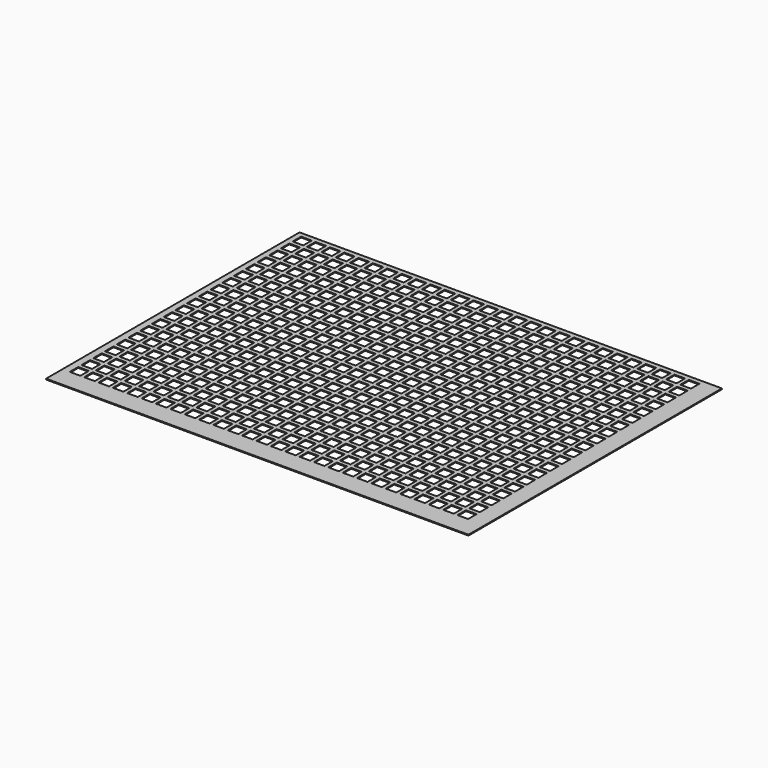
from build123d import *

# Parameters (mm, degrees)
F0_W     = 200
F0_H     = 150
F1_DEPTH = 0.4
F2_W     = 5
F2_H     = 5
F3_DEPTH = 25


with BuildPart() as f1:
    # F0 (on Top) → F1 (new body)
    with BuildSketch(Plane.XY):
        with Locations((100, -75)):
            Rectangle(F0_W, F0_H)
    extrude(amount=F1_DEPTH)

    # F2 (on face) → F3 (cut)
    with BuildSketch(Plane.XY.offset(0.4)):
        with Locations((5.083729, -4.797285)):
            Rectangle(F2_W, F2_H)
        with Locations((11.883729, -4.797285)):
            Rectangle(F2_W, F2_H)
        with Locations((18.683729, -4.797285)):
            Rectangle(F2_W, F2_H)
        with Locations((25.483729, -4.797285)):
            Rectangle(F2_W, F2_H)
        with Locations((32.283729, -4.797285)):
            Rectangle(F2_W, F2_H)
        with Locations((39.083729, -4.797285)):
            Rectangle(F2_W, F2_H)
        with Locations((45.883729, -4.797285)):
            Rectangle(F2_W, F2_H)
        with Locations((52.683729, -4.797285)):
            Rectangle(F2_W, F2_H)
        with Locations((59.483729, -4.797285)):
            Rectangle(F2_W, F2_H)
        with Locations((66.283729, -4.797285)):
            Rectangle(F2_W, F2_H)
        with Locations((73.083729, -4.797285)):
            Rectangle(F2_W, F2_H)
        with Locations((79.883729, -4.797285)):
            Rectangle(F2_W, F2_H)
        with Locations((86.683729, -4.797285)):
            Rectangle(F2_W, F2_H)
        with Locations((93.483729, -4.797285)):
            Rectangle(F2_W, F2_H)
        with Locations((100.283729, -4.797285)):
            Rectangle(F2_W, F2_H)
        with Locations((107.083729, -4.797285)):
            Rectangle(F2_W, F2_H)
        with Locations((113.883729, -4.797285)):
            Rectangle(F2_W, F2_H)
        with Locations((120.683729, -4.797285)):
            Rectangle(F2_W, F2_H)
        with Locations((127.483729, -4.797285)):
            Rectangle(F2_W, F2_H)
        with Locations((134.283729, -4.797285)):
            Rectangle(F2_W, F2_H)
        with Locations((141.083729, -4.797285)):
            Rectangle(F2_W, F2_H)
        with Locations((147.883729, -4.797285)):
            Rectangle(F2_W, F2_H)
        with Locations((154.683729, -4.797285)):
            Rectangle(F2_W, F2_H)
        with Locations((161.483729, -4.797285)):
            Rectangle(F2_W, F2_H)
        with Locations((168.283729, -4.797285)):
            Rectangle(F2_W, F2_H)
        with Locations((175.083729, -4.797285)):
            Rectangle(F2_W, F2_H)
        with Locations((181.883729, -4.797285)):
            Rectangle(F2_W, F2_H)
        with Locations((188.683729, -4.797285)):
            Rectangle(F2_W, F2_H)
        with Locations((113.92974, -11.797134)):
            Rectangle(F2_W, F2_H)
        with Locations((127.52974, -11.797134)):
            Rectangle(F2_W, F2_H)
        with Locations((25.52974, -11.797134)):
            Rectangle(F2_W, F2_H)
        with Locations((73.12974, -11.797134)):
            Rectangle(F2_W, F2_H)
        with Locations((175.12974, -11.797134)):
            Rectangle(F2_W, F2_H)
        with Locations((45.92974, -11.797134)):
            Rectangle(F2_W, F2_H)
        with Locations((86.72974, -11.797134)):
            Rectangle(F2_W, F2_H)
        with Locations((11.92974, -11.797134)):
            Rectangle(F2_W, F2_H)
        with Locations((100.32974, -11.797134)):
            Rectangle(F2_W, F2_H)
        with Locations((168.32974, -11.797134)):
            Rectangle(F2_W, F2_H)
        with Locations((93.52974, -11.797134)):
            Rectangle(F2_W, F2_H)
        with Locations((134.32974, -11.797134)):
            Rectangle(F2_W, F2_H)
        with Locations((147.92974, -11.797134)):
            Rectangle(F2_W, F2_H)
        with Locations((107.12974, -11.797134)):
            Rectangle(F2_W, F2_H)
        with Locations((188.72974, -11.797134)):
            Rectangle(F2_W, F2_H)
        with Locations((161.52974, -11.797134)):
            Rectangle(F2_W, F2_H)
        with Locations((141.12974, -11.797134)):
            Rectangle(F2_W, F2_H)
        with Locations((181.92974, -11.797134)):
            Rectangle(F2_W, F2_H)
        with Locations((52.72974, -11.797134)):
            Rectangle(F2_W, F2_H)
        with Locations((59.52974, -11.797134)):
            Rectangle(F2_W, F2_H)
        with Locations((66.32974, -11.797134)):
            Rectangle(F2_W, F2_H)
        with Locations((154.72974, -11.797134)):
            Rectangle(F2_W, F2_H)
        with Locations((39.12974, -11.797134)):
            Rectangle(F2_W, F2_H)
        with Locations((79.92974, -11.797134)):
            Rectangle(F2_W, F2_H)
        with Locations((120.72974, -11.797134)):
            Rectangle(F2_W, F2_H)
        with Locations((5.12974, -11.797134)):
            Rectangle(F2_W, F2_H)
        with Locations((18.72974, -11.797134)):
            Rectangle(F2_W, F2_H)
        with Locations((32.32974, -11.797134)):
            Rectangle(F2_W, F2_H)
        with Locations((113.97575, -18.796983)):
            Rectangle(F2_W, F2_H)
        with Locations((127.57575, -18.796983)):
            Rectangle(F2_W, F2_H)
        with Locations((25.57575, -18.796983)):
            Rectangle(F2_W, F2_H)
        with Locations((73.17575, -18.796983)):
            Rectangle(F2_W, F2_H)
        with Locations((175.17575, -18.796983)):
            Rectangle(F2_W, F2_H)
        with Locations((45.97575, -18.796983)):
            Rectangle(F2_W, F2_H)
        with Locations((86.77575, -18.796983)):
            Rectangle(F2_W, F2_H)
        with Locations((11.97575, -18.796983)):
            Rectangle(F2_W, F2_H)
        with Locations((100.37575, -18.796983)):
            Rectangle(F2_W, F2_H)
        with Locations((168.37575, -18.796983)):
            Rectangle(F2_W, F2_H)
        with Locations((93.57575, -18.796983)):
            Rectangle(F2_W, F2_H)
        with Locations((134.37575, -18.796983)):
            Rectangle(F2_W, F2_H)
        with Locations((147.97575, -18.796983)):
            Rectangle(F2_W, F2_H)
        with Locations((107.17575, -18.796983)):
            Rectangle(F2_W, F2_H)
        with Locations((188.77575, -18.796983)):
            Rectangle(F2_W, F2_H)
        with Locations((161.57575, -18.796983)):
            Rectangle(F2_W, F2_H)
        with Locations((141.17575, -18.796983)):
            Rectangle(F2_W, F2_H)
        with Locations((181.97575, -18.796983)):
            Rectangle(F2_W, F2_H)
        with Locations((52.77575, -18.796983)):
            Rectangle(F2_W, F2_H)
        with Locations((59.57575, -18.796983)):
            Rectangle(F2_W, F2_H)
        with Locations((66.37575, -18.796983)):
            Rectangle(F2_W, F2_H)
        with Locations((154.77575, -18.796983)):
            Rectangle(F2_W, F2_H)
        with Locations((39.17575, -18.796983)):
            Rectangle(F2_W, F2_H)
        with Locations((79.97575, -18.796983)):
            Rectangle(F2_W, F2_H)
        with Locations((120.77575, -18.796983)):
            Rectangle(F2_W, F2_H)
        with Locations((5.17575, -18.796983)):
            Rectangle(F2_W, F2_H)
        with Locations((18.77575, -18.796983)):
            Rectangle(F2_W, F2_H)
        with Locations((32.37575, -18.796983)):
            Rectangle(F2_W, F2_H)
        with Locations((114.02176, -25.796832)):
            Rectangle(F2_W, F2_H)
        with Locations((127.62176, -25.796832)):
            Rectangle(F2_W, F2_H)
        with Locations((25.62176, -25.796832)):
            Rectangle(F2_W, F2_H)
        with Locations((73.22176, -25.796832)):
            Rectangle(F2_W, F2_H)
        with Locations((175.22176, -25.796832)):
            Rectangle(F2_W, F2_H)
        with Locations((46.02176, -25.796832)):
            Rectangle(F2_W, F2_H)
        with Locations((86.82176, -25.796832)):
            Rectangle(F2_W, F2_H)
        with Locations((12.02176, -25.796832)):
            Rectangle(F2_W, F2_H)
        with Locations((100.42176, -25.796832)):
            Rectangle(F2_W, F2_H)
        with Locations((168.42176, -25.796832)):
            Rectangle(F2_W, F2_H)
        with Locations((93.62176, -25.796832)):
            Rectangle(F2_W, F2_H)
        with Locations((134.42176, -25.796832)):
            Rectangle(F2_W, F2_H)
        with Locations((148.02176, -25.796832)):
            Rectangle(F2_W, F2_H)
        with Locations((107.22176, -25.796832)):
            Rectangle(F2_W, F2_H)
        with Locations((188.82176, -25.796832)):
            Rectangle(F2_W, F2_H)
        with Locations((161.62176, -25.796832)):
            Rectangle(F2_W, F2_H)
        with Locations((141.22176, -25.796832)):
            Rectangle(F2_W, F2_H)
        with Locations((182.02176, -25.796832)):
            Rectangle(F2_W, F2_H)
        with Locations((52.82176, -25.796832)):
            Rectangle(F2_W, F2_H)
        with Locations((59.62176, -25.796832)):
            Rectangle(F2_W, F2_H)
        with Locations((66.42176, -25.796832)):
            Rectangle(F2_W, F2_H)
        with Locations((154.82176, -25.796832)):
            Rectangle(F2_W, F2_H)
        with Locations((39.22176, -25.796832)):
            Rectangle(F2_W, F2_H)
        with Locations((80.02176, -25.796832)):
            Rectangle(F2_W, F2_H)
        with Locations((120.82176, -25.796832)):
            Rectangle(F2_W, F2_H)
        with Locations((5.22176, -25.796832)):
            Rectangle(F2_W, F2_H)
        with Locations((18.82176, -25.796832)):
            Rectangle(F2_W, F2_H)
        with Locations((32.42176, -25.796832)):
            Rectangle(F2_W, F2_H)
        with Locations((114.06777, -32.79668)):
            Rectangle(F2_W, F2_H)
        with Locations((127.66777, -32.79668)):
            Rectangle(F2_W, F2_H)
        with Locations((25.66777, -32.79668)):
            Rectangle(F2_W, F2_H)
        with Locations((73.26777, -32.79668)):
            Rectangle(F2_W, F2_H)
        with Locations((175.26777, -32.79668)):
            Rectangle(F2_W, F2_H)
        with Locations((46.06777, -32.79668)):
            Rectangle(F2_W, F2_H)
        with Locations((86.86777, -32.79668)):
            Rectangle(F2_W, F2_H)
        with Locations((12.06777, -32.79668)):
            Rectangle(F2_W, F2_H)
        with Locations((100.46777, -32.79668)):
            Rectangle(F2_W, F2_H)
        with Locations((168.46777, -32.79668)):
            Rectangle(F2_W, F2_H)
        with Locations((93.66777, -32.79668)):
            Rectangle(F2_W, F2_H)
        with Locations((134.46777, -32.79668)):
            Rectangle(F2_W, F2_H)
        with Locations((148.06777, -32.79668)):
            Rectangle(F2_W, F2_H)
        with Locations((107.26777, -32.79668)):
            Rectangle(F2_W, F2_H)
        with Locations((188.86777, -32.79668)):
            Rectangle(F2_W, F2_H)
        with Locations((161.66777, -32.79668)):
            Rectangle(F2_W, F2_H)
        with Locations((141.26777, -32.79668)):
            Rectangle(F2_W, F2_H)
        with Locations((182.06777, -32.79668)):
            Rectangle(F2_W, F2_H)
        with Locations((52.86777, -32.79668)):
            Rectangle(F2_W, F2_H)
        with Locations((59.66777, -32.79668)):
            Rectangle(F2_W, F2_H)
        with Locations((66.46777, -32.79668)):
            Rectangle(F2_W, F2_H)
        with Locations((154.86777, -32.79668)):
            Rectangle(F2_W, F2_H)
        with Locations((39.26777, -32.79668)):
            Rectangle(F2_W, F2_H)
        with Locations((80.06777, -32.79668)):
            Rectangle(F2_W, F2_H)
        with Locations((120.86777, -32.79668)):
            Rectangle(F2_W, F2_H)
        with Locations((5.26777, -32.79668)):
            Rectangle(F2_W, F2_H)
        with Locations((18.86777, -32.79668)):
            Rectangle(F2_W, F2_H)
        with Locations((32.46777, -32.79668)):
            Rectangle(F2_W, F2_H)
        with Locations((114.113781, -39.796529)):
            Rectangle(F2_W, F2_H)
        with Locations((127.713781, -39.796529)):
            Rectangle(F2_W, F2_H)
        with Locations((25.713781, -39.796529)):
            Rectangle(F2_W, F2_H)
        with Locations((73.313781, -39.796529)):
            Rectangle(F2_W, F2_H)
        with Locations((175.313781, -39.796529)):
            Rectangle(F2_W, F2_H)
        with Locations((46.113781, -39.796529)):
            Rectangle(F2_W, F2_H)
        with Locations((86.913781, -39.796529)):
            Rectangle(F2_W, F2_H)
        with Locations((12.113781, -39.796529)):
            Rectangle(F2_W, F2_H)
        with Locations((100.513781, -39.796529)):
            Rectangle(F2_W, F2_H)
        with Locations((168.513781, -39.796529)):
            Rectangle(F2_W, F2_H)
        with Locations((93.713781, -39.796529)):
            Rectangle(F2_W, F2_H)
        with Locations((134.513781, -39.796529)):
            Rectangle(F2_W, F2_H)
        with Locations((148.113781, -39.796529)):
            Rectangle(F2_W, F2_H)
        with Locations((107.313781, -39.796529)):
            Rectangle(F2_W, F2_H)
        with Locations((188.913781, -39.796529)):
            Rectangle(F2_W, F2_H)
        with Locations((161.713781, -39.796529)):
            Rectangle(F2_W, F2_H)
        with Locations((141.313781, -39.796529)):
            Rectangle(F2_W, F2_H)
        with Locations((182.113781, -39.796529)):
            Rectangle(F2_W, F2_H)
        with Locations((52.913781, -39.796529)):
            Rectangle(F2_W, F2_H)
        with Locations((59.713781, -39.796529)):
            Rectangle(F2_W, F2_H)
        with Locations((66.513781, -39.796529)):
            Rectangle(F2_W, F2_H)
        with Locations((154.913781, -39.796529)):
            Rectangle(F2_W, F2_H)
        with Locations((39.313781, -39.796529)):
            Rectangle(F2_W, F2_H)
        with Locations((80.113781, -39.796529)):
            Rectangle(F2_W, F2_H)
        with Locations((120.913781, -39.796529)):
            Rectangle(F2_W, F2_H)
        with Locations((5.313781, -39.796529)):
            Rectangle(F2_W, F2_H)
        with Locations((18.913781, -39.796529)):
            Rectangle(F2_W, F2_H)
        with Locations((32.513781, -39.796529)):
            Rectangle(F2_W, F2_H)
        with Locations((114.159791, -46.796378)):
            Rectangle(F2_W, F2_H)
        with Locations((127.759791, -46.796378)):
            Rectangle(F2_W, F2_H)
        with Locations((25.759791, -46.796378)):
            Rectangle(F2_W, F2_H)
        with Locations((73.359791, -46.796378)):
            Rectangle(F2_W, F2_H)
        with Locations((175.359791, -46.796378)):
            Rectangle(F2_W, F2_H)
        with Locations((46.159791, -46.796378)):
            Rectangle(F2_W, F2_H)
        with Locations((86.959791, -46.796378)):
            Rectangle(F2_W, F2_H)
        with Locations((12.159791, -46.796378)):
            Rectangle(F2_W, F2_H)
        with Locations((100.559791, -46.796378)):
            Rectangle(F2_W, F2_H)
        with Locations((168.559791, -46.796378)):
            Rectangle(F2_W, F2_H)
        with Locations((93.759791, -46.796378)):
            Rectangle(F2_W, F2_H)
        with Locations((134.559791, -46.796378)):
            Rectangle(F2_W, F2_H)
        with Locations((148.159791, -46.796378)):
            Rectangle(F2_W, F2_H)
        with Locations((107.359791, -46.796378)):
            Rectangle(F2_W, F2_H)
        with Locations((188.959791, -46.796378)):
            Rectangle(F2_W, F2_H)
        with Locations((161.759791, -46.796378)):
            Rectangle(F2_W, F2_H)
        with Locations((141.359791, -46.796378)):
            Rectangle(F2_W, F2_H)
        with Locations((182.159791, -46.796378)):
            Rectangle(F2_W, F2_H)
        with Locations((52.959791, -46.796378)):
            Rectangle(F2_W, F2_H)
        with Locations((59.759791, -46.796378)):
            Rectangle(F2_W, F2_H)
        with Locations((66.559791, -46.796378)):
            Rectangle(F2_W, F2_H)
        with Locations((154.959791, -46.796378)):
            Rectangle(F2_W, F2_H)
        with Locations((39.359791, -46.796378)):
            Rectangle(F2_W, F2_H)
        with Locations((80.159791, -46.796378)):
            Rectangle(F2_W, F2_H)
        with Locations((120.959791, -46.796378)):
            Rectangle(F2_W, F2_H)
        with Locations((5.359791, -46.796378)):
            Rectangle(F2_W, F2_H)
        with Locations((18.959791, -46.796378)):
            Rectangle(F2_W, F2_H)
        with Locations((32.559791, -46.796378)):
            Rectangle(F2_W, F2_H)
        with Locations((114.205801, -53.796227)):
            Rectangle(F2_W, F2_H)
        with Locations((127.805801, -53.796227)):
            Rectangle(F2_W, F2_H)
        with Locations((25.805801, -53.796227)):
            Rectangle(F2_W, F2_H)
        with Locations((73.405801, -53.796227)):
            Rectangle(F2_W, F2_H)
        with Locations((175.405801, -53.796227)):
            Rectangle(F2_W, F2_H)
        with Locations((46.205801, -53.796227)):
            Rectangle(F2_W, F2_H)
        with Locations((87.005801, -53.796227)):
            Rectangle(F2_W, F2_H)
        with Locations((12.205801, -53.796227)):
            Rectangle(F2_W, F2_H)
        with Locations((100.605801, -53.796227)):
            Rectangle(F2_W, F2_H)
        with Locations((168.605801, -53.796227)):
            Rectangle(F2_W, F2_H)
        with Locations((93.805801, -53.796227)):
            Rectangle(F2_W, F2_H)
        with Locations((134.605801, -53.796227)):
            Rectangle(F2_W, F2_H)
        with Locations((148.205801, -53.796227)):
            Rectangle(F2_W, F2_H)
        with Locations((107.405801, -53.796227)):
            Rectangle(F2_W, F2_H)
        with Locations((189.005801, -53.796227)):
            Rectangle(F2_W, F2_H)
        with Locations((161.805801, -53.796227)):
            Rectangle(F2_W, F2_H)
        with Locations((141.405801, -53.796227)):
            Rectangle(F2_W, F2_H)
        with Locations((182.205801, -53.796227)):
            Rectangle(F2_W, F2_H)
        with Locations((53.005801, -53.796227)):
            Rectangle(F2_W, F2_H)
        with Locations((59.805801, -53.796227)):
            Rectangle(F2_W, F2_H)
        with Locations((66.605801, -53.796227)):
            Rectangle(F2_W, F2_H)
        with Locations((155.005801, -53.796227)):
            Rectangle(F2_W, F2_H)
        with Locations((39.405801, -53.796227)):
            Rectangle(F2_W, F2_H)
        with Locations((80.205801, -53.796227)):
            Rectangle(F2_W, F2_H)
        with Locations((121.005801, -53.796227)):
            Rectangle(F2_W, F2_H)
        with Locations((5.405801, -53.796227)):
            Rectangle(F2_W, F2_H)
        with Locations((19.005801, -53.796227)):
            Rectangle(F2_W, F2_H)
        with Locations((32.605801, -53.796227)):
            Rectangle(F2_W, F2_H)
        with Locations((114.251811, -60.796075)):
            Rectangle(F2_W, F2_H)
        with Locations((127.851811, -60.796075)):
            Rectangle(F2_W, F2_H)
        with Locations((25.851811, -60.796075)):
            Rectangle(F2_W, F2_H)
        with Locations((73.451811, -60.796075)):
            Rectangle(F2_W, F2_H)
        with Locations((175.451811, -60.796075)):
            Rectangle(F2_W, F2_H)
        with Locations((46.251811, -60.796075)):
            Rectangle(F2_W, F2_H)
        with Locations((87.051811, -60.796075)):
            Rectangle(F2_W, F2_H)
        with Locations((12.251811, -60.796075)):
            Rectangle(F2_W, F2_H)
        with Locations((100.651811, -60.796075)):
            Rectangle(F2_W, F2_H)
        with Locations((168.651811, -60.796075)):
            Rectangle(F2_W, F2_H)
        with Locations((93.851811, -60.796075)):
            Rectangle(F2_W, F2_H)
        with Locations((134.651811, -60.796075)):
            Rectangle(F2_W, F2_H)
        with Locations((148.251811, -60.796075)):
            Rectangle(F2_W, F2_H)
        with Locations((107.451811, -60.796075)):
            Rectangle(F2_W, F2_H)
        with Locations((189.051811, -60.796075)):
            Rectangle(F2_W, F2_H)
        with Locations((161.851811, -60.796075)):
            Rectangle(F2_W, F2_H)
        with Locations((141.451811, -60.796075)):
            Rectangle(F2_W, F2_H)
        with Locations((182.251811, -60.796075)):
            Rectangle(F2_W, F2_H)
        with Locations((53.051811, -60.796075)):
            Rectangle(F2_W, F2_H)
        with Locations((59.851811, -60.796075)):
            Rectangle(F2_W, F2_H)
        with Locations((66.651811, -60.796075)):
            Rectangle(F2_W, F2_H)
        with Locations((155.051811, -60.796075)):
            Rectangle(F2_W, F2_H)
        with Locations((39.451811, -60.796075)):
            Rectangle(F2_W, F2_H)
        with Locations((80.251811, -60.796075)):
            Rectangle(F2_W, F2_H)
        with Locations((121.051811, -60.796075)):
            Rectangle(F2_W, F2_H)
        with Locations((5.451811, -60.796075)):
            Rectangle(F2_W, F2_H)
        with Locations((19.051811, -60.796075)):
            Rectangle(F2_W, F2_H)
        with Locations((32.651811, -60.796075)):
            Rectangle(F2_W, F2_H)
        with Locations((114.297822, -67.795924)):
            Rectangle(F2_W, F2_H)
        with Locations((127.897822, -67.795924)):
            Rectangle(F2_W, F2_H)
        with Locations((25.897822, -67.795924)):
            Rectangle(F2_W, F2_H)
        with Locations((73.497822, -67.795924)):
            Rectangle(F2_W, F2_H)
        with Locations((175.497822, -67.795924)):
            Rectangle(F2_W, F2_H)
        with Locations((46.297822, -67.795924)):
            Rectangle(F2_W, F2_H)
        with Locations((87.097822, -67.795924)):
            Rectangle(F2_W, F2_H)
        with Locations((12.297822, -67.795924)):
            Rectangle(F2_W, F2_H)
        with Locations((100.697822, -67.795924)):
            Rectangle(F2_W, F2_H)
        with Locations((168.697822, -67.795924)):
            Rectangle(F2_W, F2_H)
        with Locations((93.897822, -67.795924)):
            Rectangle(F2_W, F2_H)
        with Locations((134.697822, -67.795924)):
            Rectangle(F2_W, F2_H)
        with Locations((148.297822, -67.795924)):
            Rectangle(F2_W, F2_H)
        with Locations((107.497822, -67.795924)):
            Rectangle(F2_W, F2_H)
        with Locations((189.097822, -67.795924)):
            Rectangle(F2_W, F2_H)
        with Locations((161.897822, -67.795924)):
            Rectangle(F2_W, F2_H)
        with Locations((141.497822, -67.795924)):
            Rectangle(F2_W, F2_H)
        with Locations((182.297822, -67.795924)):
            Rectangle(F2_W, F2_H)
        with Locations((53.097822, -67.795924)):
            Rectangle(F2_W, F2_H)
        with Locations((59.897822, -67.795924)):
            Rectangle(F2_W, F2_H)
        with Locations((66.697822, -67.795924)):
            Rectangle(F2_W, F2_H)
        with Locations((155.097822, -67.795924)):
            Rectangle(F2_W, F2_H)
        with Locations((39.497822, -67.795924)):
            Rectangle(F2_W, F2_H)
        with Locations((80.297822, -67.795924)):
            Rectangle(F2_W, F2_H)
        with Locations((121.097822, -67.795924)):
            Rectangle(F2_W, F2_H)
        with Locations((5.497822, -67.795924)):
            Rectangle(F2_W, F2_H)
        with Locations((19.097822, -67.795924)):
            Rectangle(F2_W, F2_H)
        with Locations((32.697822, -67.795924)):
            Rectangle(F2_W, F2_H)
        with Locations((114.343832, -74.795773)):
            Rectangle(F2_W, F2_H)
        with Locations((127.943832, -74.795773)):
            Rectangle(F2_W, F2_H)
        with Locations((25.943832, -74.795773)):
            Rectangle(F2_W, F2_H)
        with Locations((73.543832, -74.795773)):
            Rectangle(F2_W, F2_H)
        with Locations((175.543832, -74.795773)):
            Rectangle(F2_W, F2_H)
        with Locations((46.343832, -74.795773)):
            Rectangle(F2_W, F2_H)
        with Locations((87.143832, -74.795773)):
            Rectangle(F2_W, F2_H)
        with Locations((12.343832, -74.795773)):
            Rectangle(F2_W, F2_H)
        with Locations((100.743832, -74.795773)):
            Rectangle(F2_W, F2_H)
        with Locations((168.743832, -74.795773)):
            Rectangle(F2_W, F2_H)
        with Locations((93.943832, -74.795773)):
            Rectangle(F2_W, F2_H)
        with Locations((134.743832, -74.795773)):
            Rectangle(F2_W, F2_H)
        with Locations((148.343832, -74.795773)):
            Rectangle(F2_W, F2_H)
        with Locations((107.543832, -74.795773)):
            Rectangle(F2_W, F2_H)
        with Locations((189.143832, -74.795773)):
            Rectangle(F2_W, F2_H)
        with Locations((161.943832, -74.795773)):
            Rectangle(F2_W, F2_H)
        with Locations((141.543832, -74.795773)):
            Rectangle(F2_W, F2_H)
        with Locations((182.343832, -74.795773)):
            Rectangle(F2_W, F2_H)
        with Locations((53.143832, -74.795773)):
            Rectangle(F2_W, F2_H)
        with Locations((59.943832, -74.795773)):
            Rectangle(F2_W, F2_H)
        with Locations((66.743832, -74.795773)):
            Rectangle(F2_W, F2_H)
        with Locations((155.143832, -74.795773)):
            Rectangle(F2_W, F2_H)
        with Locations((39.543832, -74.795773)):
            Rectangle(F2_W, F2_H)
        with Locations((80.343832, -74.795773)):
            Rectangle(F2_W, F2_H)
        with Locations((121.143832, -74.795773)):
            Rectangle(F2_W, F2_H)
        with Locations((5.543832, -74.795773)):
            Rectangle(F2_W, F2_H)
        with Locations((19.143832, -74.795773)):
            Rectangle(F2_W, F2_H)
        with Locations((32.743832, -74.795773)):
            Rectangle(F2_W, F2_H)
        with Locations((114.389842, -81.795622)):
            Rectangle(F2_W, F2_H)
        with Locations((127.989842, -81.795622)):
            Rectangle(F2_W, F2_H)
        with Locations((25.989842, -81.795622)):
            Rectangle(F2_W, F2_H)
        with Locations((73.589842, -81.795622)):
            Rectangle(F2_W, F2_H)
        with Locations((175.589842, -81.795622)):
            Rectangle(F2_W, F2_H)
        with Locations((46.389842, -81.795622)):
            Rectangle(F2_W, F2_H)
        with Locations((87.189842, -81.795622)):
            Rectangle(F2_W, F2_H)
        with Locations((12.389842, -81.795622)):
            Rectangle(F2_W, F2_H)
        with Locations((100.789842, -81.795622)):
            Rectangle(F2_W, F2_H)
        with Locations((168.789842, -81.795622)):
            Rectangle(F2_W, F2_H)
        with Locations((93.989842, -81.795622)):
            Rectangle(F2_W, F2_H)
        with Locations((134.789842, -81.795622)):
            Rectangle(F2_W, F2_H)
        with Locations((148.389842, -81.795622)):
            Rectangle(F2_W, F2_H)
        with Locations((107.589842, -81.795622)):
            Rectangle(F2_W, F2_H)
        with Locations((189.189842, -81.795622)):
            Rectangle(F2_W, F2_H)
        with Locations((161.989842, -81.795622)):
            Rectangle(F2_W, F2_H)
        with Locations((141.589842, -81.795622)):
            Rectangle(F2_W, F2_H)
        with Locations((182.389842, -81.795622)):
            Rectangle(F2_W, F2_H)
        with Locations((53.189842, -81.795622)):
            Rectangle(F2_W, F2_H)
        with Locations((59.989842, -81.795622)):
            Rectangle(F2_W, F2_H)
        with Locations((66.789842, -81.795622)):
            Rectangle(F2_W, F2_H)
        with Locations((155.189842, -81.795622)):
            Rectangle(F2_W, F2_H)
        with Locations((39.589842, -81.795622)):
            Rectangle(F2_W, F2_H)
        with Locations((80.389842, -81.795622)):
            Rectangle(F2_W, F2_H)
        with Locations((121.189842, -81.795622)):
            Rectangle(F2_W, F2_H)
        with Locations((5.589842, -81.795622)):
            Rectangle(F2_W, F2_H)
        with Locations((19.189842, -81.795622)):
            Rectangle(F2_W, F2_H)
        with Locations((32.789842, -81.795622)):
            Rectangle(F2_W, F2_H)
        with Locations((114.435852, -88.795471)):
            Rectangle(F2_W, F2_H)
        with Locations((128.035852, -88.795471)):
            Rectangle(F2_W, F2_H)
        with Locations((26.035852, -88.795471)):
            Rectangle(F2_W, F2_H)
        with Locations((73.635852, -88.795471)):
            Rectangle(F2_W, F2_H)
        with Locations((175.635852, -88.795471)):
            Rectangle(F2_W, F2_H)
        with Locations((46.435852, -88.795471)):
            Rectangle(F2_W, F2_H)
        with Locations((87.235852, -88.795471)):
            Rectangle(F2_W, F2_H)
        with Locations((12.435852, -88.795471)):
            Rectangle(F2_W, F2_H)
        with Locations((100.835852, -88.795471)):
            Rectangle(F2_W, F2_H)
        with Locations((168.835852, -88.795471)):
            Rectangle(F2_W, F2_H)
        with Locations((94.035852, -88.795471)):
            Rectangle(F2_W, F2_H)
        with Locations((134.835852, -88.795471)):
            Rectangle(F2_W, F2_H)
        with Locations((148.435852, -88.795471)):
            Rectangle(F2_W, F2_H)
        with Locations((107.635852, -88.795471)):
            Rectangle(F2_W, F2_H)
        with Locations((189.235852, -88.795471)):
            Rectangle(F2_W, F2_H)
        with Locations((162.035852, -88.795471)):
            Rectangle(F2_W, F2_H)
        with Locations((141.635852, -88.795471)):
            Rectangle(F2_W, F2_H)
        with Locations((182.435852, -88.795471)):
            Rectangle(F2_W, F2_H)
        with Locations((53.235852, -88.795471)):
            Rectangle(F2_W, F2_H)
        with Locations((60.035852, -88.795471)):
            Rectangle(F2_W, F2_H)
        with Locations((66.835852, -88.795471)):
            Rectangle(F2_W, F2_H)
        with Locations((155.235852, -88.795471)):
            Rectangle(F2_W, F2_H)
        with Locations((39.635852, -88.795471)):
            Rectangle(F2_W, F2_H)
        with Locations((80.435852, -88.795471)):
            Rectangle(F2_W, F2_H)
        with Locations((121.235852, -88.795471)):
            Rectangle(F2_W, F2_H)
        with Locations((5.635852, -88.795471)):
            Rectangle(F2_W, F2_H)
        with Locations((19.235852, -88.795471)):
            Rectangle(F2_W, F2_H)
        with Locations((32.835852, -88.795471)):
            Rectangle(F2_W, F2_H)
        with Locations((114.481863, -95.795319)):
            Rectangle(F2_W, F2_H)
        with Locations((128.081863, -95.795319)):
            Rectangle(F2_W, F2_H)
        with Locations((26.081863, -95.795319)):
            Rectangle(F2_W, F2_H)
        with Locations((73.681863, -95.795319)):
            Rectangle(F2_W, F2_H)
        with Locations((175.681863, -95.795319)):
            Rectangle(F2_W, F2_H)
        with Locations((46.481863, -95.795319)):
            Rectangle(F2_W, F2_H)
        with Locations((87.281863, -95.795319)):
            Rectangle(F2_W, F2_H)
        with Locations((12.481863, -95.795319)):
            Rectangle(F2_W, F2_H)
        with Locations((100.881863, -95.795319)):
            Rectangle(F2_W, F2_H)
        with Locations((168.881863, -95.795319)):
            Rectangle(F2_W, F2_H)
        with Locations((94.081863, -95.795319)):
            Rectangle(F2_W, F2_H)
        with Locations((134.881863, -95.795319)):
            Rectangle(F2_W, F2_H)
        with Locations((148.481863, -95.795319)):
            Rectangle(F2_W, F2_H)
        with Locations((107.681863, -95.795319)):
            Rectangle(F2_W, F2_H)
        with Locations((189.281863, -95.795319)):
            Rectangle(F2_W, F2_H)
        with Locations((162.081863, -95.795319)):
            Rectangle(F2_W, F2_H)
        with Locations((141.681863, -95.795319)):
            Rectangle(F2_W, F2_H)
        with Locations((182.481863, -95.795319)):
            Rectangle(F2_W, F2_H)
        with Locations((53.281863, -95.795319)):
            Rectangle(F2_W, F2_H)
        with Locations((60.081863, -95.795319)):
            Rectangle(F2_W, F2_H)
        with Locations((66.881863, -95.795319)):
            Rectangle(F2_W, F2_H)
        with Locations((155.281863, -95.795319)):
            Rectangle(F2_W, F2_H)
        with Locations((39.681863, -95.795319)):
            Rectangle(F2_W, F2_H)
        with Locations((80.481863, -95.795319)):
            Rectangle(F2_W, F2_H)
        with Locations((121.281863, -95.795319)):
            Rectangle(F2_W, F2_H)
        with Locations((5.681863, -95.795319)):
            Rectangle(F2_W, F2_H)
        with Locations((19.281863, -95.795319)):
            Rectangle(F2_W, F2_H)
        with Locations((32.881863, -95.795319)):
            Rectangle(F2_W, F2_H)
        with Locations((114.527873, -102.795168)):
            Rectangle(F2_W, F2_H)
        with Locations((128.127873, -102.795168)):
            Rectangle(F2_W, F2_H)
        with Locations((26.127873, -102.795168)):
            Rectangle(F2_W, F2_H)
        with Locations((73.727873, -102.795168)):
            Rectangle(F2_W, F2_H)
        with Locations((175.727873, -102.795168)):
            Rectangle(F2_W, F2_H)
        with Locations((46.527873, -102.795168)):
            Rectangle(F2_W, F2_H)
        with Locations((87.327873, -102.795168)):
            Rectangle(F2_W, F2_H)
        with Locations((12.527873, -102.795168)):
            Rectangle(F2_W, F2_H)
        with Locations((100.927873, -102.795168)):
            Rectangle(F2_W, F2_H)
        with Locations((168.927873, -102.795168)):
            Rectangle(F2_W, F2_H)
        with Locations((94.127873, -102.795168)):
            Rectangle(F2_W, F2_H)
        with Locations((134.927873, -102.795168)):
            Rectangle(F2_W, F2_H)
        with Locations((148.527873, -102.795168)):
            Rectangle(F2_W, F2_H)
        with Locations((107.727873, -102.795168)):
            Rectangle(F2_W, F2_H)
        with Locations((189.327873, -102.795168)):
            Rectangle(F2_W, F2_H)
        with Locations((162.127873, -102.795168)):
            Rectangle(F2_W, F2_H)
        with Locations((141.727873, -102.795168)):
            Rectangle(F2_W, F2_H)
        with Locations((182.527873, -102.795168)):
            Rectangle(F2_W, F2_H)
        with Locations((53.327873, -102.795168)):
            Rectangle(F2_W, F2_H)
        with Locations((60.127873, -102.795168)):
            Rectangle(F2_W, F2_H)
        with Locations((66.927873, -102.795168)):
            Rectangle(F2_W, F2_H)
        with Locations((155.327873, -102.795168)):
            Rectangle(F2_W, F2_H)
        with Locations((39.727873, -102.795168)):
            Rectangle(F2_W, F2_H)
        with Locations((80.527873, -102.795168)):
            Rectangle(F2_W, F2_H)
        with Locations((121.327873, -102.795168)):
            Rectangle(F2_W, F2_H)
        with Locations((5.727873, -102.795168)):
            Rectangle(F2_W, F2_H)
        with Locations((19.327873, -102.795168)):
            Rectangle(F2_W, F2_H)
        with Locations((32.927873, -102.795168)):
            Rectangle(F2_W, F2_H)
        with Locations((114.573883, -109.795017)):
            Rectangle(F2_W, F2_H)
        with Locations((128.173883, -109.795017)):
            Rectangle(F2_W, F2_H)
        with Locations((26.173883, -109.795017)):
            Rectangle(F2_W, F2_H)
        with Locations((73.773883, -109.795017)):
            Rectangle(F2_W, F2_H)
        with Locations((175.773883, -109.795017)):
            Rectangle(F2_W, F2_H)
        with Locations((46.573883, -109.795017)):
            Rectangle(F2_W, F2_H)
        with Locations((87.373883, -109.795017)):
            Rectangle(F2_W, F2_H)
        with Locations((12.573883, -109.795017)):
            Rectangle(F2_W, F2_H)
        with Locations((100.973883, -109.795017)):
            Rectangle(F2_W, F2_H)
        with Locations((168.973883, -109.795017)):
            Rectangle(F2_W, F2_H)
        with Locations((94.173883, -109.795017)):
            Rectangle(F2_W, F2_H)
        with Locations((134.973883, -109.795017)):
            Rectangle(F2_W, F2_H)
        with Locations((148.573883, -109.795017)):
            Rectangle(F2_W, F2_H)
        with Locations((107.773883, -109.795017)):
            Rectangle(F2_W, F2_H)
        with Locations((189.373883, -109.795017)):
            Rectangle(F2_W, F2_H)
        with Locations((162.173883, -109.795017)):
            Rectangle(F2_W, F2_H)
        with Locations((141.773883, -109.795017)):
            Rectangle(F2_W, F2_H)
        with Locations((182.573883, -109.795017)):
            Rectangle(F2_W, F2_H)
        with Locations((53.373883, -109.795017)):
            Rectangle(F2_W, F2_H)
        with Locations((60.173883, -109.795017)):
            Rectangle(F2_W, F2_H)
        with Locations((66.973883, -109.795017)):
            Rectangle(F2_W, F2_H)
        with Locations((155.373883, -109.795017)):
            Rectangle(F2_W, F2_H)
        with Locations((39.773883, -109.795017)):
            Rectangle(F2_W, F2_H)
        with Locations((80.573883, -109.795017)):
            Rectangle(F2_W, F2_H)
        with Locations((121.373883, -109.795017)):
            Rectangle(F2_W, F2_H)
        with Locations((5.773883, -109.795017)):
            Rectangle(F2_W, F2_H)
        with Locations((19.373883, -109.795017)):
            Rectangle(F2_W, F2_H)
        with Locations((32.973883, -109.795017)):
            Rectangle(F2_W, F2_H)
        with Locations((114.619893, -116.794866)):
            Rectangle(F2_W, F2_H)
        with Locations((128.219893, -116.794866)):
            Rectangle(F2_W, F2_H)
        with Locations((26.219893, -116.794866)):
            Rectangle(F2_W, F2_H)
        with Locations((73.819893, -116.794866)):
            Rectangle(F2_W, F2_H)
        with Locations((175.819893, -116.794866)):
            Rectangle(F2_W, F2_H)
        with Locations((46.619893, -116.794866)):
            Rectangle(F2_W, F2_H)
        with Locations((87.419893, -116.794866)):
            Rectangle(F2_W, F2_H)
        with Locations((12.619893, -116.794866)):
            Rectangle(F2_W, F2_H)
        with Locations((101.019893, -116.794866)):
            Rectangle(F2_W, F2_H)
        with Locations((169.019893, -116.794866)):
            Rectangle(F2_W, F2_H)
        with Locations((94.219893, -116.794866)):
            Rectangle(F2_W, F2_H)
        with Locations((135.019893, -116.794866)):
            Rectangle(F2_W, F2_H)
        with Locations((148.619893, -116.794866)):
            Rectangle(F2_W, F2_H)
        with Locations((107.819893, -116.794866)):
            Rectangle(F2_W, F2_H)
        with Locations((189.419893, -116.794866)):
            Rectangle(F2_W, F2_H)
        with Locations((162.219893, -116.794866)):
            Rectangle(F2_W, F2_H)
        with Locations((141.819893, -116.794866)):
            Rectangle(F2_W, F2_H)
        with Locations((182.619893, -116.794866)):
            Rectangle(F2_W, F2_H)
        with Locations((53.419893, -116.794866)):
            Rectangle(F2_W, F2_H)
        with Locations((60.219893, -116.794866)):
            Rectangle(F2_W, F2_H)
        with Locations((67.019893, -116.794866)):
            Rectangle(F2_W, F2_H)
        with Locations((155.419893, -116.794866)):
            Rectangle(F2_W, F2_H)
        with Locations((39.819893, -116.794866)):
            Rectangle(F2_W, F2_H)
        with Locations((80.619893, -116.794866)):
            Rectangle(F2_W, F2_H)
        with Locations((121.419893, -116.794866)):
            Rectangle(F2_W, F2_H)
        with Locations((5.819893, -116.794866)):
            Rectangle(F2_W, F2_H)
        with Locations((19.419893, -116.794866)):
            Rectangle(F2_W, F2_H)
        with Locations((33.019893, -116.794866)):
            Rectangle(F2_W, F2_H)
        with Locations((114.665904, -123.794715)):
            Rectangle(F2_W, F2_H)
        with Locations((128.265904, -123.794715)):
            Rectangle(F2_W, F2_H)
        with Locations((26.265904, -123.794715)):
            Rectangle(F2_W, F2_H)
        with Locations((73.865904, -123.794715)):
            Rectangle(F2_W, F2_H)
        with Locations((175.865904, -123.794715)):
            Rectangle(F2_W, F2_H)
        with Locations((46.665904, -123.794715)):
            Rectangle(F2_W, F2_H)
        with Locations((87.465904, -123.794715)):
            Rectangle(F2_W, F2_H)
        with Locations((12.665904, -123.794715)):
            Rectangle(F2_W, F2_H)
        with Locations((101.065904, -123.794715)):
            Rectangle(F2_W, F2_H)
        with Locations((169.065904, -123.794715)):
            Rectangle(F2_W, F2_H)
        with Locations((94.265904, -123.794715)):
            Rectangle(F2_W, F2_H)
        with Locations((135.065904, -123.794715)):
            Rectangle(F2_W, F2_H)
        with Locations((148.665904, -123.794715)):
            Rectangle(F2_W, F2_H)
        with Locations((107.865904, -123.794715)):
            Rectangle(F2_W, F2_H)
        with Locations((189.465904, -123.794715)):
            Rectangle(F2_W, F2_H)
        with Locations((162.265904, -123.794715)):
            Rectangle(F2_W, F2_H)
        with Locations((141.865904, -123.794715)):
            Rectangle(F2_W, F2_H)
        with Locations((182.665904, -123.794715)):
            Rectangle(F2_W, F2_H)
        with Locations((53.465904, -123.794715)):
            Rectangle(F2_W, F2_H)
        with Locations((60.265904, -123.794715)):
            Rectangle(F2_W, F2_H)
        with Locations((67.065904, -123.794715)):
            Rectangle(F2_W, F2_H)
        with Locations((155.465904, -123.794715)):
            Rectangle(F2_W, F2_H)
        with Locations((39.865904, -123.794715)):
            Rectangle(F2_W, F2_H)
        with Locations((80.665904, -123.794715)):
            Rectangle(F2_W, F2_H)
        with Locations((121.465904, -123.794715)):
            Rectangle(F2_W, F2_H)
        with Locations((5.865904, -123.794715)):
            Rectangle(F2_W, F2_H)
        with Locations((19.465904, -123.794715)):
            Rectangle(F2_W, F2_H)
        with Locations((33.065904, -123.794715)):
            Rectangle(F2_W, F2_H)
        with Locations((114.711914, -130.794563)):
            Rectangle(F2_W, F2_H)
        with Locations((128.311914, -130.794563)):
            Rectangle(F2_W, F2_H)
        with Locations((26.311914, -130.794563)):
            Rectangle(F2_W, F2_H)
        with Locations((73.911914, -130.794563)):
            Rectangle(F2_W, F2_H)
        with Locations((175.911914, -130.794563)):
            Rectangle(F2_W, F2_H)
        with Locations((46.711914, -130.794563)):
            Rectangle(F2_W, F2_H)
        with Locations((87.511914, -130.794563)):
            Rectangle(F2_W, F2_H)
        with Locations((12.711914, -130.794563)):
            Rectangle(F2_W, F2_H)
        with Locations((101.111914, -130.794563)):
            Rectangle(F2_W, F2_H)
        with Locations((169.111914, -130.794563)):
            Rectangle(F2_W, F2_H)
        with Locations((94.311914, -130.794563)):
            Rectangle(F2_W, F2_H)
        with Locations((135.111914, -130.794563)):
            Rectangle(F2_W, F2_H)
        with Locations((148.711914, -130.794563)):
            Rectangle(F2_W, F2_H)
        with Locations((107.911914, -130.794563)):
            Rectangle(F2_W, F2_H)
        with Locations((189.511914, -130.794563)):
            Rectangle(F2_W, F2_H)
        with Locations((162.311914, -130.794563)):
            Rectangle(F2_W, F2_H)
        with Locations((141.911914, -130.794563)):
            Rectangle(F2_W, F2_H)
        with Locations((182.711914, -130.794563)):
            Rectangle(F2_W, F2_H)
        with Locations((53.511914, -130.794563)):
            Rectangle(F2_W, F2_H)
        with Locations((60.311914, -130.794563)):
            Rectangle(F2_W, F2_H)
        with Locations((67.111914, -130.794563)):
            Rectangle(F2_W, F2_H)
        with Locations((155.511914, -130.794563)):
            Rectangle(F2_W, F2_H)
        with Locations((39.911914, -130.794563)):
            Rectangle(F2_W, F2_H)
        with Locations((80.711914, -130.794563)):
            Rectangle(F2_W, F2_H)
        with Locations((121.511914, -130.794563)):
            Rectangle(F2_W, F2_H)
        with Locations((5.911914, -130.794563)):
            Rectangle(F2_W, F2_H)
        with Locations((19.511914, -130.794563)):
            Rectangle(F2_W, F2_H)
        with Locations((33.111914, -130.794563)):
            Rectangle(F2_W, F2_H)
        with Locations((114.757924, -137.794412)):
            Rectangle(F2_W, F2_H)
        with Locations((128.357924, -137.794412)):
            Rectangle(F2_W, F2_H)
        with Locations((26.357924, -137.794412)):
            Rectangle(F2_W, F2_H)
        with Locations((73.957924, -137.794412)):
            Rectangle(F2_W, F2_H)
        with Locations((175.957924, -137.794412)):
            Rectangle(F2_W, F2_H)
        with Locations((46.757924, -137.794412)):
            Rectangle(F2_W, F2_H)
        with Locations((87.557924, -137.794412)):
            Rectangle(F2_W, F2_H)
        with Locations((12.757924, -137.794412)):
            Rectangle(F2_W, F2_H)
        with Locations((101.157924, -137.794412)):
            Rectangle(F2_W, F2_H)
        with Locations((169.157924, -137.794412)):
            Rectangle(F2_W, F2_H)
        with Locations((94.357924, -137.794412)):
            Rectangle(F2_W, F2_H)
        with Locations((135.157924, -137.794412)):
            Rectangle(F2_W, F2_H)
        with Locations((148.757924, -137.794412)):
            Rectangle(F2_W, F2_H)
        with Locations((107.957924, -137.794412)):
            Rectangle(F2_W, F2_H)
        with Locations((189.557924, -137.794412)):
            Rectangle(F2_W, F2_H)
        with Locations((162.357924, -137.794412)):
            Rectangle(F2_W, F2_H)
        with Locations((141.957924, -137.794412)):
            Rectangle(F2_W, F2_H)
        with Locations((182.757924, -137.794412)):
            Rectangle(F2_W, F2_H)
        with Locations((53.557924, -137.794412)):
            Rectangle(F2_W, F2_H)
        with Locations((60.357924, -137.794412)):
            Rectangle(F2_W, F2_H)
        with Locations((67.157924, -137.794412)):
            Rectangle(F2_W, F2_H)
        with Locations((155.557924, -137.794412)):
            Rectangle(F2_W, F2_H)
        with Locations((39.957924, -137.794412)):
            Rectangle(F2_W, F2_H)
        with Locations((80.757924, -137.794412)):
            Rectangle(F2_W, F2_H)
        with Locations((121.557924, -137.794412)):
            Rectangle(F2_W, F2_H)
        with Locations((5.957924, -137.794412)):
            Rectangle(F2_W, F2_H)
        with Locations((19.557924, -137.794412)):
            Rectangle(F2_W, F2_H)
        with Locations((33.157924, -137.794412)):
            Rectangle(F2_W, F2_H)
    extrude(amount=-F3_DEPTH, mode=Mode.SUBTRACT)


solid = f1.part
